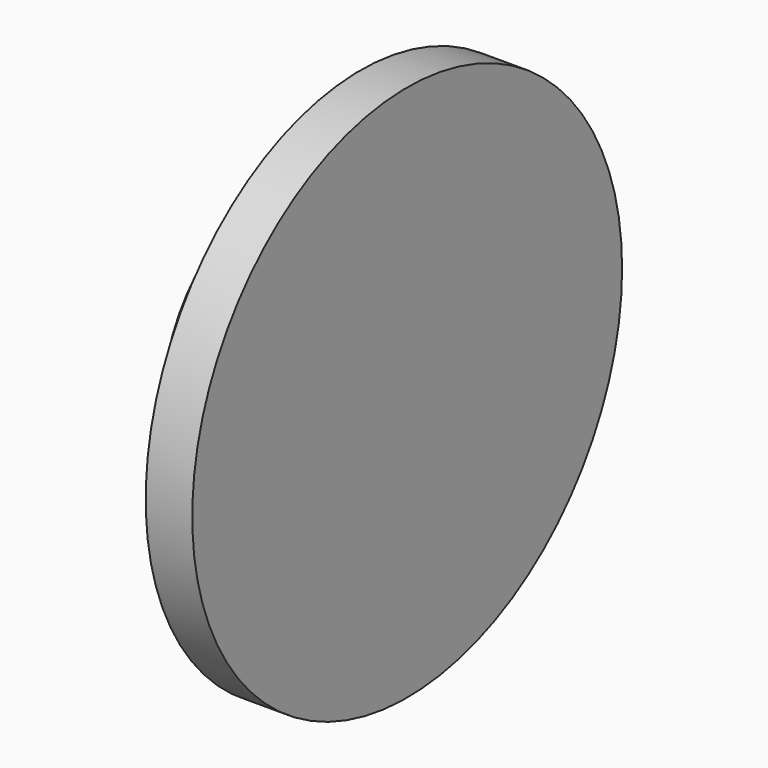
from build123d import *

# Parameters (mm, degrees)
F0_R     = 14.654091
F1_DEPTH = 2.54
F2_R     = 7.47912
F3_DEPTH = 4.826


with BuildPart() as f1:
    # F0 (on Right) → F1 (new body)
    with BuildSketch(Plane.YZ):
        Circle(F0_R)
    extrude(amount=F1_DEPTH)

    # F2 (on Right) → F3 (join)
    with BuildSketch(Plane.YZ):
        Circle(F2_R)
    extrude(amount=-F3_DEPTH)


solid = f1.part
